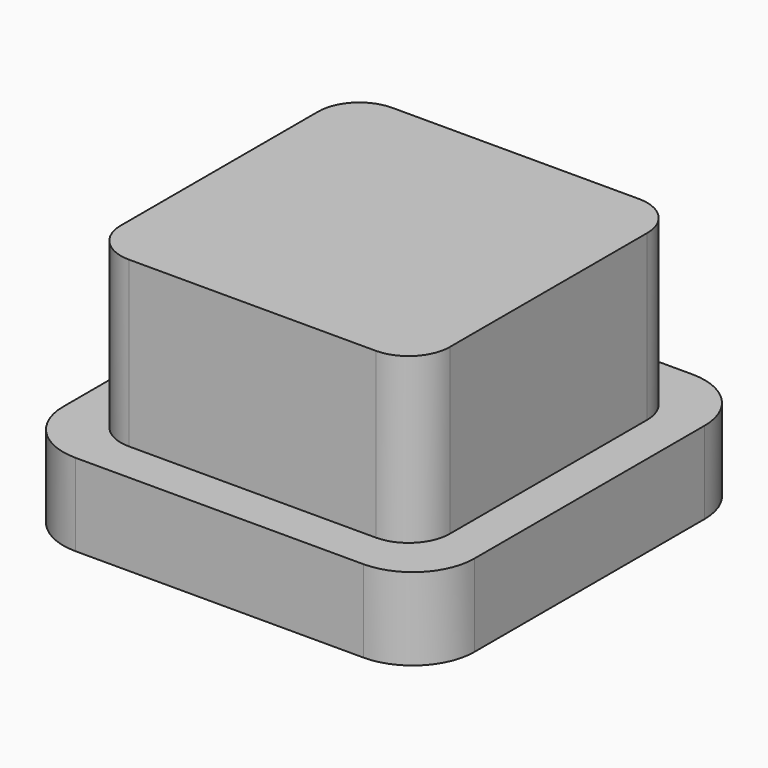
from build123d import *

# Parameters (mm, degrees)
SKETCH_W     = 6
SKETCH_H     = 6
PAD_DEPTH    = 3
SKETCH001_W  = 7.5
SKETCH001_H  = 7.5
PAD001_DEPTH = 1.5
FILLET_R     = 1.125
FILLET001_R  = 0.75


with BuildPart() as part:
    # Sketch → Pad (new body)
    with BuildSketch(Plane.XY):
        Rectangle(SKETCH_W, SKETCH_H)
    extrude(amount=PAD_DEPTH)

    # Sketch001 → Pad001 (join)
    with BuildSketch(Plane.XY):
        Rectangle(SKETCH001_W, SKETCH001_H)
    extrude(amount=-PAD001_DEPTH)

    # Fillet
    fillet_edges = [part.edges().sort_by_distance(p)[0] for p in [
        (3.75, -3.75, -0.75),
        (3.75, 3.75, -0.75),
        (-3.75, 3.75, -0.75),
        (-3.75, -3.75, -0.75),
    ]]
    fillet(fillet_edges, radius=FILLET_R)

    # Fillet001
    fillet001_edges = [part.edges().sort_by_distance(p)[0] for p in [
        (3, -3, 1.5),
        (3, 3, 1.5),
        (-3, 3, 1.5),
        (-3, -3, 1.5),
    ]]
    fillet(fillet001_edges, radius=FILLET001_R)


solid = part.part
